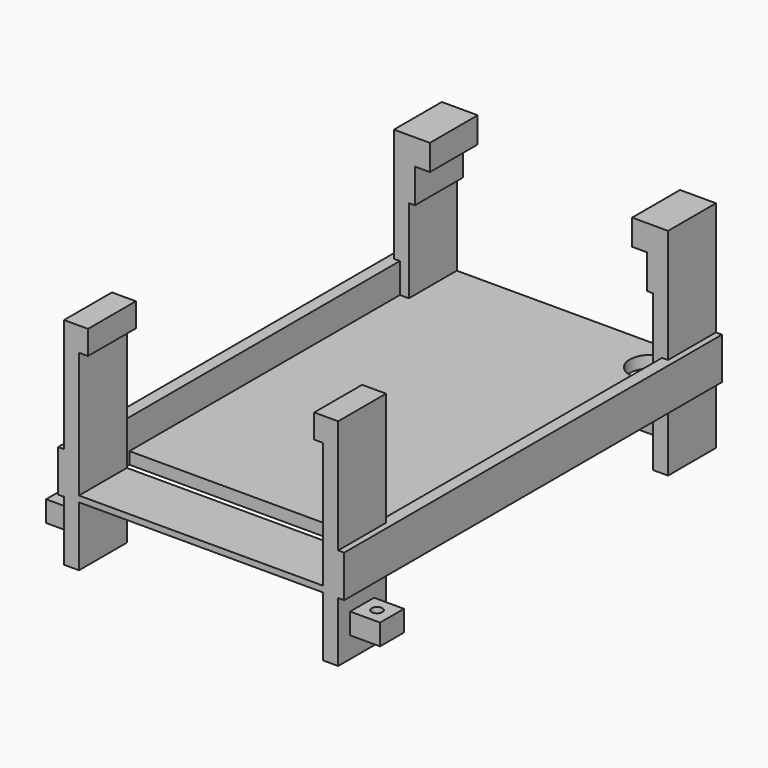
from build123d import *

# Parameters (mm, degrees)
CYLINDER013_R     = 3.5
CYLINDER013_DEPTH = 15
CYLINDER012_R     = 0.9
CYLINDER012_DEPTH = 3.5
BOX039_W          = 5
BOX039_H          = 5
BOX039_DEPTH      = 3.5
BOX036_W          = 2.5
BOX036_H          = 10
BOX036_DEPTH      = 36
BOX031_W          = 1
BOX031_H          = 10
BOX031_DEPTH      = 10
BOX029_W          = 1.5
BOX029_H          = 10
BOX029_DEPTH      = 4
BOX032_W          = 2.5
BOX032_H          = 10
BOX032_DEPTH      = 4.3
BOX037_W          = 2
BOX037_H          = 78.9
BOX037_DEPTH      = 7
BOX033_W          = 2
BOX033_H          = 78.9
BOX033_DEPTH      = 7
BOX030_W          = 2.5
BOX030_H          = 10
BOX030_DEPTH      = 36
BOX034_W          = 45.8
BOX034_H          = 66.5
BOX034_DEPTH      = 2
BOX038_W          = 45.8
BOX038_H          = 10
BOX038_DEPTH      = 1
BOX035_W          = 2.5
BOX035_H          = 10
BOX035_DEPTH      = 36
BOX028_W          = 2.5
BOX028_H          = 10
BOX028_DEPTH      = 36


with BuildPart() as anchorhole003:
    # Cylinder013 → Cylinder013 (new body)
    with BuildSketch(Plane(origin=(2.5, 2.5, 0), x_dir=(1, 0, 0), z_dir=(0, 0, 1))):
        Circle(CYLINDER013_R)
    extrude(amount=CYLINDER013_DEPTH)


with BuildPart() as anchorhole003_1:
    # Clone024 placement: moved
    add(anchorhole003.part.moved(Location((76.9, 78, 9))))


with BuildPart() as anchorscrew:
    # Cylinder012 → Cylinder012 (new body)
    with BuildSketch(Plane(origin=(2.5, 2.5, 0), x_dir=(1, 0, 0), z_dir=(0, 0, 1))):
        Circle(CYLINDER012_R)
    extrude(amount=CYLINDER012_DEPTH)


with BuildPart() as anchor:
    # Box039 → Box039 (new body)
    with BuildSketch(Plane.XY):
        with Locations((2.5, 2.5)):
            Rectangle(BOX039_W, BOX039_H)
    extrude(amount=BOX039_DEPTH)

    # Cut010: cut AnchorScrew
    add(anchorscrew.part, mode=Mode.SUBTRACT)


with BuildPart() as anchor001:
    # Clone005 base: copy of Anchor
    add(anchor.part)


with BuildPart() as anchor001_1:
    # Clone005 placement: moved
    add(anchor001.part.moved(Location((85.9, 9.6, 2))))


with BuildPart() as part_mirroring004:
    # Part__Mirroring004: instance of anchor001
    add(anchor001_1.part.mirror(Plane(origin=(0, 0, 5.5), x_dir=(0, 1, 0), z_dir=(0, 0, 1))))


with BuildPart() as clone006:
    # Clone006 base: copy of Anchor
    add(anchor.part)


with BuildPart() as clone006_1:
    # Clone006 placement: moved
    add(clone006.part.moved(Location((78.4, 78.5, 2))))


with BuildPart() as part_mirroring005:
    # Part__Mirroring005: instance of Clone006
    add(clone006_1.part.mirror(Plane(origin=(0, 0, 5.5), x_dir=(0, 1, 0), z_dir=(0, 0, 1))))


with BuildPart() as cube028:
    # Box036 → Box036 (new body)
    with BuildSketch(Plane(origin=(83.4, 76, 2), x_dir=(1, 0, 0), z_dir=(0, 0, 1))):
        with Locations((1.25, 5)):
            Rectangle(BOX036_W, BOX036_H)
    extrude(amount=BOX036_DEPTH)


with BuildPart() as cube023:
    # Box031 → Box031 (new body)
    with BuildSketch(Plane(origin=(42.6, 76, 28), x_dir=(1, 0, 0), z_dir=(0, 0, 1))):
        with Locations((0.5, 5)):
            Rectangle(BOX031_W, BOX031_H)
    extrude(amount=BOX031_DEPTH)


with BuildPart() as cube021:
    # Box029 → Box029 (new body)
    with BuildSketch(Plane(origin=(42.6, 7.1, 34), x_dir=(1, 0, 0), z_dir=(0, 0, 1))):
        with Locations((0.75, 5)):
            Rectangle(BOX029_W, BOX029_H)
    extrude(amount=BOX029_DEPTH)


with BuildPart() as fusion004:
    # Box032 → Box032 (new body)
    with BuildSketch(Plane(origin=(43.6, 76, 33.7), x_dir=(1, 0, 0), z_dir=(0, 0, 1))):
        with Locations((1.25, 5)):
            Rectangle(BOX032_W, BOX032_H)
    extrude(amount=BOX032_DEPTH)

    # Fusion004: union Cube023, Cube021
    add(cube023.part)
    add(cube021.part)


with BuildPart() as part_mirroring003:
    # Part__Mirroring003: instance of Fusion004
    add(fusion004.part.mirror(Plane(origin=(63, 0, 0), x_dir=(0, -1, 0), z_dir=(1, 0, 0))))


with BuildPart() as anchor003:
    # Clone008 base: copy of Anchor
    add(anchor.part)


with BuildPart() as anchor003_1:
    # Clone008 placement: moved
    add(anchor003.part.moved(Location((35.1, 78.5, 2))))


with BuildPart() as part_mirroring007:
    # Part__Mirroring007: instance of Anchor003
    add(anchor003_1.part.mirror(Plane(origin=(0, 0, 5.5), x_dir=(0, 1, 0), z_dir=(0, 0, 1))))


with BuildPart() as cube029:
    # Box037 → Box037 (new body)
    with BuildSketch(Plane(origin=(84.9, 7.1, 12), x_dir=(1, 0, 0), z_dir=(0, 0, 1))):
        with Locations((1, 39.45)):
            Rectangle(BOX037_W, BOX037_H)
    extrude(amount=BOX037_DEPTH)


with BuildPart() as cube025:
    # Box033 → Box033 (new body)
    with BuildSketch(Plane(origin=(39.1, 7.1, 12), x_dir=(1, 0, 0), z_dir=(0, 0, 1))):
        with Locations((1, 39.45)):
            Rectangle(BOX033_W, BOX033_H)
    extrude(amount=BOX033_DEPTH)


with BuildPart() as cube022:
    # Box030 → Box030 (new body)
    with BuildSketch(Plane(origin=(40.1, 76, 2), x_dir=(1, 0, 0), z_dir=(0, 0, 1))):
        with Locations((1.25, 5)):
            Rectangle(BOX030_W, BOX030_H)
    extrude(amount=BOX030_DEPTH)


with BuildPart() as cube026:
    # Box034 → Box034 (new body)
    with BuildSketch(Plane(origin=(40.1, 19.5, 12), x_dir=(1, 0, 0), z_dir=(0, 0, 1))):
        with Locations((22.9, 33.25)):
            Rectangle(BOX034_W, BOX034_H)
    extrude(amount=BOX034_DEPTH)


with BuildPart() as anchor002:
    # Clone007 base: copy of Anchor
    add(anchor.part)


with BuildPart() as anchor002_1:
    # Clone007 placement: moved
    add(anchor002.part.moved(Location((35.1, 9.6, 2))))


with BuildPart() as part_mirroring006:
    # Part__Mirroring006: instance of Anchor002
    add(anchor002_1.part.mirror(Plane(origin=(0, 0, 5.5), x_dir=(0, 1, 0), z_dir=(0, 0, 1))))


with BuildPart() as cube030:
    # Box038 → Box038 (new body)
    with BuildSketch(Plane(origin=(40.1, 7.1, 12), x_dir=(1, 0, 0), z_dir=(0, 0, 1))):
        with Locations((22.9, 5)):
            Rectangle(BOX038_W, BOX038_H)
    extrude(amount=BOX038_DEPTH)


with BuildPart() as cube027:
    # Box035 → Box035 (new body)
    with BuildSketch(Plane(origin=(83.4, 7.1, 2), x_dir=(1, 0, 0), z_dir=(0, 0, 1))):
        with Locations((1.25, 5)):
            Rectangle(BOX035_W, BOX035_H)
    extrude(amount=BOX035_DEPTH)


with BuildPart() as flashercradle:
    # Box028 → Box028 (new body)
    with BuildSketch(Plane(origin=(40.1, 7.1, 2), x_dir=(1, 0, 0), z_dir=(0, 0, 1))):
        with Locations((1.25, 5)):
            Rectangle(BOX028_W, BOX028_H)
    extrude(amount=BOX028_DEPTH)

    # Fusion005: union Part__Mirroring004, Part__Mirroring005, Cube028, Part__Mirroring003, Part__Mirroring007, Cube029, Cube025, Cube022, Cube026, Part__Mirroring006, Cube030, Cube027, Fusion004
    add(part_mirroring004.part)
    add(part_mirroring005.part)
    add(cube028.part)
    add(part_mirroring003.part)
    add(part_mirroring007.part)
    add(cube029.part)
    add(cube025.part)
    add(cube022.part)
    add(cube026.part)
    add(part_mirroring006.part)
    add(cube030.part)
    add(cube027.part)
    add(fusion004.part)

    # Cut021: cut AnchorHole003
    add(anchorhole003_1.part, mode=Mode.SUBTRACT)


solid = flashercradle.part
